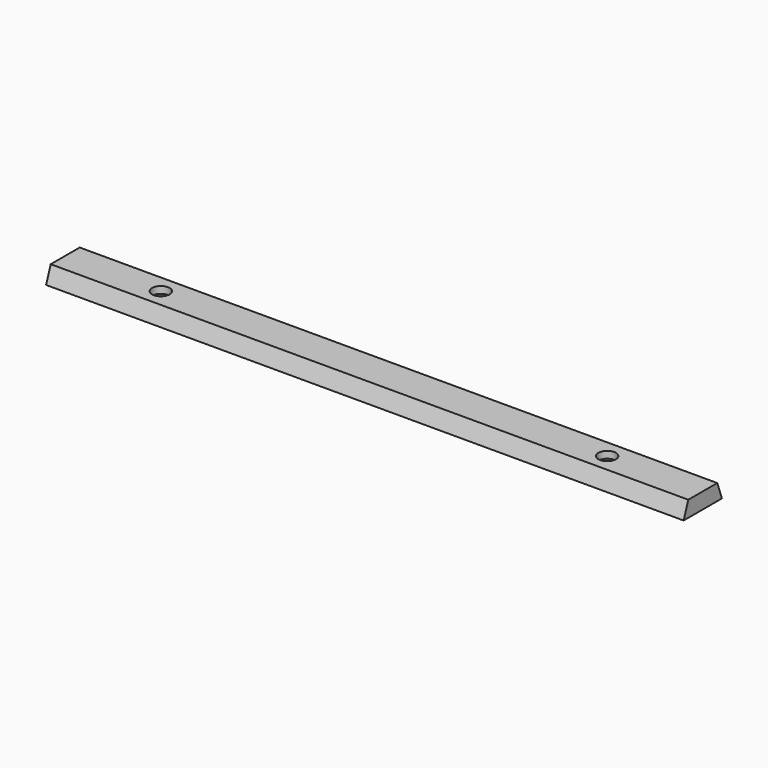
from build123d import *

# Parameters (mm, degrees)
F1_DEPTH       = 200
F3_D           = 5.5
F3_CSINK_D     = 11.2
F3_CSINK_ANGLE = 90


with BuildPart() as f1:
    # F0 (on Right) → F1 (new body)
    with BuildSketch(Plane.YZ):
        Polygon((1.8198511713, 5), (0, 0), (15, 0), (13.1801488287, 5), align=None)
    extrude(amount=F1_DEPTH)

    # F3 (through all)
    with Locations(Plane(origin=(0, 0, 0), x_dir=(1, 0, 0), z_dir=(0, 0, -1))):
        with Locations((30, -7.5), (170, -7.5)):
            CounterSinkHole(F3_D / 2, F3_CSINK_D / 2, counter_sink_angle=F3_CSINK_ANGLE)


solid = f1.part
